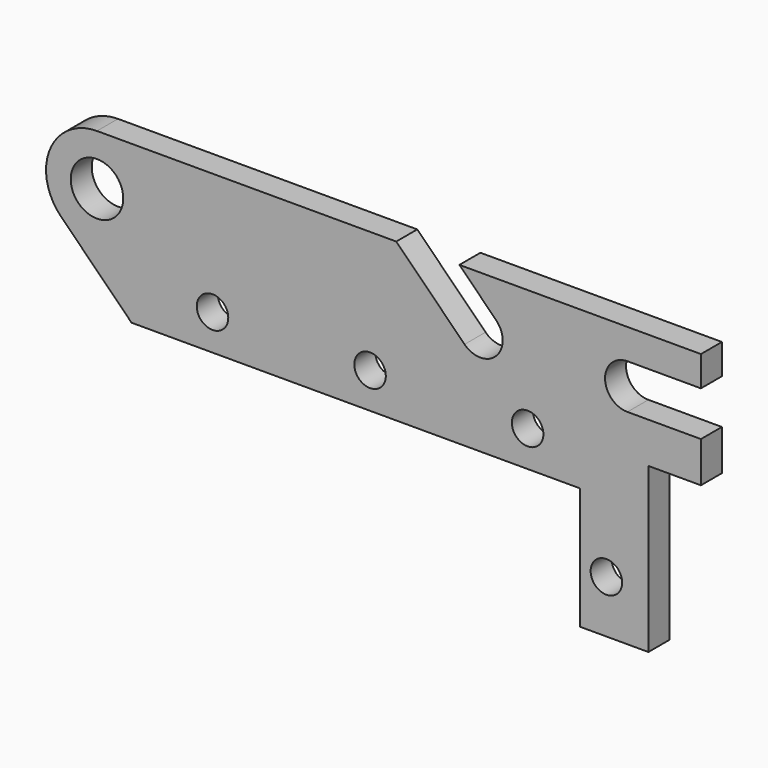
from build123d import *

# Parameters (mm, degrees)
F0_R     = 3
F0_R_2   = 5
F1_DEPTH = 5


with BuildPart() as f1:
    # F0 (on Front) → F1 (new body)
    with BuildSketch(Plane.XZ):
        with BuildLine():
            Line((-6.190103, 23.645651), (-63.179695, 23.645651))
            ThreePointArc((-63.179695, 23.645651), (-72.141327, 17.657681), (-70.038631, 7.086716))
            Line((-70.038631, 7.086716), (-56.597567, -6.354349))
            Line((-56.597567, -6.354349), (28.820305, -6.354349))
            Line((28.820305, -6.354349), (28.820305, -29.554349))
            Line((28.820305, -29.554349), (41.820305, -29.554349))
            Line((41.820305, -29.554349), (41.820305, 1.645651))
            Line((41.820305, 1.645651), (51.820305, 1.645651))
            Line((51.820305, 1.645651), (51.820305, 9.395651))
            Line((51.820305, 9.395651), (37.820305, 9.395651))
            ThreePointArc((37.820305, 9.395651), (33.570305, 13.645651), (37.820305, 17.895651))
            Line((37.820305, 17.895651), (51.820305, 17.895651))
            Line((51.820305, 17.895651), (51.820305, 23.645651))
            Line((51.820305, 23.645651), (16.653307, 23.645651))
            Line((16.653307, 23.645651), (16.080297, 23.645651))
            Line((16.080297, 23.645651), (5.830712, 23.645651))
            Line((5.830712, 23.645651), (12.825509, 16.650855))
            ThreePointArc((12.825509, 16.650855), (12.825509, 10.640448), (6.815101, 10.640448))
            Line((6.815101, 10.640448), (-6.190103, 23.645651))
        make_face()
        with Locations((33.820305, -19.554349)):
            Circle(F0_R, mode=Mode.SUBTRACT)
        with Locations((-41.179695, 0.445651)):
            Circle(F0_R, mode=Mode.SUBTRACT)
        with Locations((-11.179695, 0.445651)):
            Circle(F0_R, mode=Mode.SUBTRACT)
        with Locations((-63.179695, 13.945651)):
            Circle(F0_R_2, mode=Mode.SUBTRACT)
        with Locations((18.820305, 0.445651)):
            Circle(F0_R, mode=Mode.SUBTRACT)
    extrude(amount=F1_DEPTH)


solid = f1.part
